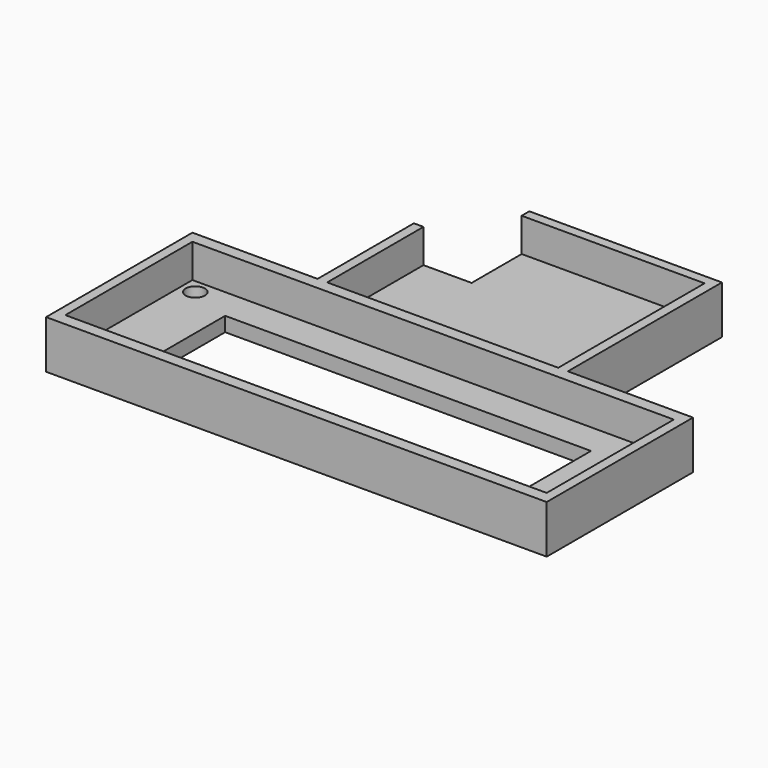
from build123d import *

# Parameters (mm, degrees)
SKETCH_W     = 100
SKETCH_H     = 33
SKETCH_R     = 2
SKETCH_W_2   = 76
SKETCH_H_2   = 20
PAD_DEPTH    = 3
PAD001_DEPTH = 3
SKETCH002_W  = 100
SKETCH002_H  = 33
PAD002_DEPTH = 10


with BuildPart() as boardholder:
    # Sketch → Pad (new body)
    with BuildSketch(Plane.XY):
        Rectangle(SKETCH_W, SKETCH_H)
        with Locations((-47, 13.5)):
            Circle(SKETCH_R, mode=Mode.SUBTRACT)
        with Locations((-47, -13.5)):
            Circle(SKETCH_R, mode=Mode.SUBTRACT)
        with Locations((47, 13.5)):
            Circle(SKETCH_R, mode=Mode.SUBTRACT)
        with Locations((47, -13.5)):
            Circle(SKETCH_R, mode=Mode.SUBTRACT)
        Rectangle(SKETCH_W_2, SKETCH_H_2, mode=Mode.SUBTRACT)
    extrude(amount=PAD_DEPTH)


with BuildPart() as obj1:
    # Sketch001 → Pad001 (new body)
    with BuildSketch(Plane.XY):
        Polygon((-14, 57), (24, 57), (24, 19), (-24, 19), (-24, 44), (-14, 44), align=None)
    extrude(amount=PAD001_DEPTH)


with BuildPart() as casewalls:
    # Sketch002 → Pad002 (new body)
    with BuildSketch(Plane.XY):
        Polygon((-14, 59), (26, 59), (26, 19), (52, 19), (52, -19), (-52, -19), (-52, 19), (-26, 19), (-26, 44), (-24, 44), (-24, 19), (24, 19), (24, 57), (-14, 57), align=None)
        Rectangle(SKETCH002_W, SKETCH002_H, mode=Mode.SUBTRACT)
    extrude(amount=PAD002_DEPTH)


solid = Compound([boardholder.part, obj1.part, casewalls.part])
